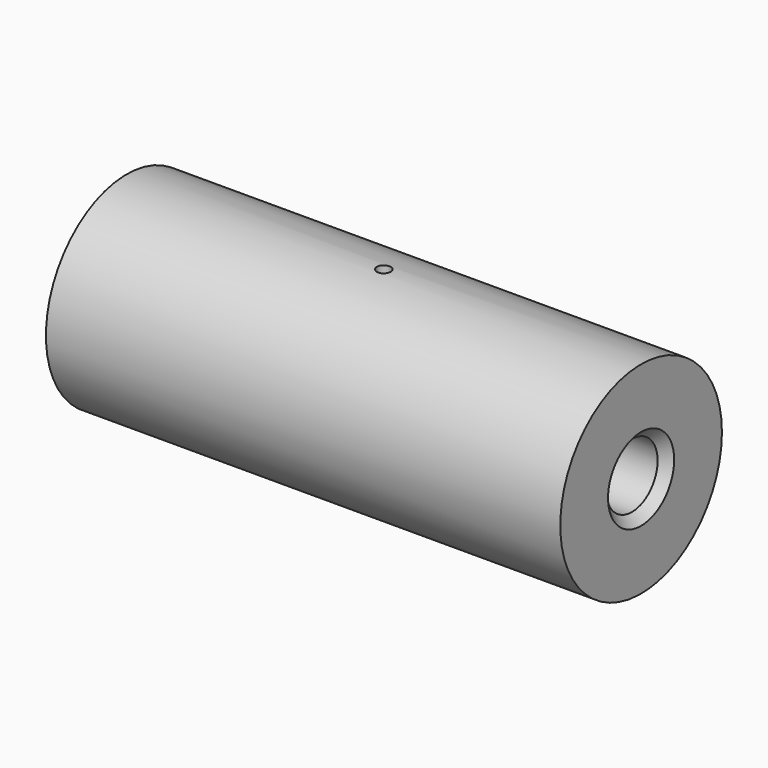
from build123d import *

# Parameters (mm, degrees)
F1_START = -3
F0_R     = 3.5
F1_DEPTH = 25
F0_R_2   = 11
F2_DEPTH = 28
F3_R     = 0.75
F4_DEPTH = 12.7
F5_SIZE  = 1


with BuildPart() as f1:
    # F0 (on Right) → F1 (new body)
    with BuildSketch(Plane.YZ.offset(F1_START)):
        Circle(F0_R)
    extrude(amount=-F1_DEPTH)

    # F0 (on Right) → F2 (join, symmetric)
    with BuildSketch(Plane.YZ):
        Circle(F0_R_2)
        Circle(F0_R, mode=Mode.SUBTRACT)
    extrude(amount=F2_DEPTH, both=True)

    # F3 (on Top) → F4 (cut)
    with BuildSketch(Plane.XY):
        Circle(F3_R)
    extrude(amount=F4_DEPTH, mode=Mode.SUBTRACT)

    # F5
    f5_edges = [f1.edges().sort_by_distance(p)[0] for p in [
        (28, -3.5, 0),
    ]]
    chamfer(f5_edges, length=F5_SIZE)


solid = f1.part
